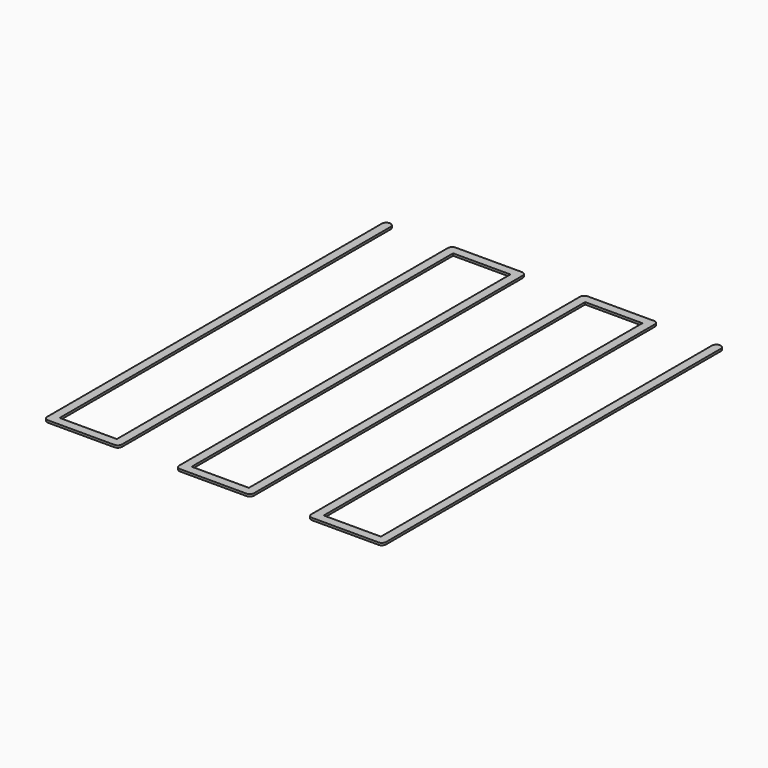
from build123d import *

# Parameters (mm, degrees)
F1_W     = 1
F1_H     = 1
F1_W_2   = 13
F2_DEPTH = 0.5


with BuildPart() as f2:
    # F1 (on Top) → F2 (new body)
    with BuildSketch(Plane.XY):
        with BuildLine():
            ThreePointArc((38, -47.5), (37.7071067812, -46.7928932188), (37, -46.5))
            Line((37, -46.5), (37, -47.5))
            Line((37, -47.5), (36, -47.5))
            ThreePointArc((36, -47.5), (36.2928932188, -48.2071067812), (37, -48.5))
            ThreePointArc((37, -48.5), (37.7071067812, -48.2071067812), (38, -47.5))
        make_face()
        with BuildLine():
            Line((36, -46.5), (37, -46.5))
            ThreePointArc((37, -46.5), (37.7071067812, -46.7928932188), (38, -47.5))
            Line((38, -47.5), (38, 47.5))
            ThreePointArc((38, 47.5), (37, 48.5), (36, 47.5))
            Line((36, 47.5), (36, -46.5))
        make_face()
        with Locations((36.5, -47)):
            Rectangle(F1_W, F1_H)
        with Locations((29.5, -47)):
            Rectangle(F1_W_2, F1_H)
        with BuildLine():
            ThreePointArc((37, -48.5), (36.2928932188, -48.2071067812), (36, -47.5))
            Line((36, -47.5), (23, -47.5))
            ThreePointArc((23, -47.5), (22.7071067812, -48.2071067812), (22, -48.5))
            Line((22, -48.5), (37, -48.5))
        make_face()
        with BuildLine():
            Line((22, -46.5), (23, -46.5))
            Line((23, -46.5), (23, 47.5))
            ThreePointArc((23, 47.5), (22.7071067812, 46.7928932188), (22, 46.5))
            Line((22, 46.5), (22, -46.5))
        make_face()
        with Locations((22.5, -47)):
            Rectangle(F1_W, F1_H)
        with BuildLine():
            ThreePointArc((22, -48.5), (22.7071067812, -48.2071067812), (23, -47.5))
            Line((23, -47.5), (22, -47.5))
            Line((22, -47.5), (22, -46.5))
            ThreePointArc((22, -46.5), (21.2928932188, -46.7928932188), (21, -47.5))
            ThreePointArc((21, -47.5), (21.2928932188, -48.2071067812), (22, -48.5))
        make_face()
        with BuildLine():
            ThreePointArc((22, 46.5), (22.7071067812, 46.7928932188), (23, 47.5))
            ThreePointArc((23, 47.5), (22.7071067812, 48.2071067812), (22, 48.5))
            ThreePointArc((22, 48.5), (21.2928932188, 48.2071067812), (21, 47.5))
            Line((21, 47.5), (22, 47.5))
            Line((22, 47.5), (22, 46.5))
        make_face()
        with BuildLine():
            ThreePointArc((21, -47.5), (21.2928932188, -46.7928932188), (22, -46.5))
            Line((22, -46.5), (22, 46.5))
            Line((22, 46.5), (21, 46.5))
            Line((21, 46.5), (21, -47.5))
        make_face()
        with BuildLine():
            ThreePointArc((21, 47.5), (21.2928932188, 48.2071067812), (22, 48.5))
            Line((22, 48.5), (7, 48.5))
            ThreePointArc((7, 48.5), (7.7071067812, 48.2071067812), (8, 47.5))
            Line((8, 47.5), (21, 47.5))
        make_face()
        with Locations((21.5, 47)):
            Rectangle(F1_W, F1_H)
        with Locations((14.5, 47)):
            Rectangle(F1_W_2, F1_H)
        with BuildLine():
            ThreePointArc((8, 47.5), (7.7071067812, 48.2071067812), (7, 48.5))
            ThreePointArc((7, 48.5), (6.2928932188, 48.2071067812), (6, 47.5))
            ThreePointArc((6, 47.5), (6.2928932188, 46.7928932188), (7, 46.5))
            Line((7, 46.5), (7, 47.5))
            Line((7, 47.5), (8, 47.5))
        make_face()
        with BuildLine():
            Line((8, -47.5), (8, 46.5))
            Line((8, 46.5), (7, 46.5))
            Line((7, 46.5), (7, -46.5))
            ThreePointArc((7, -46.5), (7.7071067812, -46.7928932188), (8, -47.5))
        make_face()
        with Locations((7.5, 47)):
            Rectangle(F1_W, F1_H)
        with BuildLine():
            ThreePointArc((7, 46.5), (6.2928932188, 46.7928932188), (6, 47.5))
            Line((6, 47.5), (6, -46.5))
            Line((6, -46.5), (7, -46.5))
            Line((7, -46.5), (7, 46.5))
        make_face()
        with BuildLine():
            ThreePointArc((7, -48.5), (7.7071067812, -48.2071067812), (8, -47.5))
            ThreePointArc((8, -47.5), (7.7071067812, -46.7928932188), (7, -46.5))
            Line((7, -46.5), (7, -47.5))
            Line((7, -47.5), (6, -47.5))
            ThreePointArc((6, -47.5), (6.2928932188, -48.2071067812), (7, -48.5))
        make_face()
        with Locations((6.5, -47)):
            Rectangle(F1_W, F1_H)
        with Locations((-0.5, -47)):
            Rectangle(F1_W_2, F1_H)
        with BuildLine():
            Line((-8, -48.5), (7, -48.5))
            ThreePointArc((7, -48.5), (6.2928932188, -48.2071067812), (6, -47.5))
            Line((6, -47.5), (-7, -47.5))
            ThreePointArc((-7, -47.5), (-7.2928932188, -48.2071067812), (-8, -48.5))
        make_face()
        with Locations((-7.5, -47)):
            Rectangle(F1_W, F1_H)
        with BuildLine():
            Line((-8, -46.5), (-7, -46.5))
            Line((-7, -46.5), (-7, 47.5))
            ThreePointArc((-7, 47.5), (-7.2928932188, 46.7928932188), (-8, 46.5))
            Line((-8, 46.5), (-8, -46.5))
        make_face()
        with BuildLine():
            ThreePointArc((-9, -47.5), (-8.7071067812, -48.2071067812), (-8, -48.5))
            ThreePointArc((-8, -48.5), (-7.2928932188, -48.2071067812), (-7, -47.5))
            Line((-7, -47.5), (-8, -47.5))
            Line((-8, -47.5), (-8, -46.5))
            ThreePointArc((-8, -46.5), (-8.7071067812, -46.7928932188), (-9, -47.5))
        make_face()
        with BuildLine():
            ThreePointArc((-9, -47.5), (-8.7071067812, -46.7928932188), (-8, -46.5))
            Line((-8, -46.5), (-8, 46.5))
            Line((-8, 46.5), (-9, 46.5))
            Line((-9, 46.5), (-9, -47.5))
        make_face()
        with BuildLine():
            ThreePointArc((-8, 46.5), (-7.2928932188, 46.7928932188), (-7, 47.5))
            ThreePointArc((-7, 47.5), (-7.2928932188, 48.2071067812), (-8, 48.5))
            ThreePointArc((-8, 48.5), (-8.7071067812, 48.2071067812), (-9, 47.5))
            Line((-9, 47.5), (-8, 47.5))
            Line((-8, 47.5), (-8, 46.5))
        make_face()
        with Locations((-8.5, 47)):
            Rectangle(F1_W, F1_H)
        with BuildLine():
            ThreePointArc((-9, 47.5), (-8.7071067812, 48.2071067812), (-8, 48.5))
            Line((-8, 48.5), (-23, 48.5))
            ThreePointArc((-23, 48.5), (-22.2928932188, 48.2071067812), (-22, 47.5))
            Line((-22, 47.5), (-9, 47.5))
        make_face()
        with Locations((-15.5, 47)):
            Rectangle(F1_W_2, F1_H)
        with BuildLine():
            ThreePointArc((-22, 47.5), (-22.2928932188, 48.2071067812), (-23, 48.5))
            ThreePointArc((-23, 48.5), (-23.7071067812, 48.2071067812), (-24, 47.5))
            ThreePointArc((-24, 47.5), (-23.7071067812, 46.7928932188), (-23, 46.5))
            Line((-23, 46.5), (-23, 47.5))
            Line((-23, 47.5), (-22, 47.5))
        make_face()
        with Locations((-22.5, 47)):
            Rectangle(F1_W, F1_H)
        with BuildLine():
            Line((-22, -47.5), (-22, 46.5))
            Line((-22, 46.5), (-23, 46.5))
            Line((-23, 46.5), (-23, -46.5))
            ThreePointArc((-23, -46.5), (-22.2928932188, -46.7928932188), (-22, -47.5))
        make_face()
        with BuildLine():
            ThreePointArc((-23, 46.5), (-23.7071067812, 46.7928932188), (-24, 47.5))
            Line((-24, 47.5), (-24, -46.5))
            Line((-24, -46.5), (-23, -46.5))
            Line((-23, -46.5), (-23, 46.5))
        make_face()
        with BuildLine():
            ThreePointArc((-23, -48.5), (-22.2928932188, -48.2071067812), (-22, -47.5))
            ThreePointArc((-22, -47.5), (-22.2928932188, -46.7928932188), (-23, -46.5))
            Line((-23, -46.5), (-23, -47.5))
            Line((-23, -47.5), (-24, -47.5))
            ThreePointArc((-24, -47.5), (-23.7071067812, -48.2071067812), (-23, -48.5))
        make_face()
        with Locations((-30.5, -47)):
            Rectangle(F1_W_2, F1_H)
        with Locations((-23.5, -47)):
            Rectangle(F1_W, F1_H)
        with BuildLine():
            Line((-38, -48.5), (-23, -48.5))
            ThreePointArc((-23, -48.5), (-23.7071067812, -48.2071067812), (-24, -47.5))
            Line((-24, -47.5), (-37, -47.5))
            ThreePointArc((-37, -47.5), (-37.2928932188, -48.2071067812), (-38, -48.5))
        make_face()
        with BuildLine():
            Line((-38, -46.5), (-37, -46.5))
            Line((-37, -46.5), (-37, 47.5))
            ThreePointArc((-37, 47.5), (-38, 48.5), (-39, 47.5))
            Line((-39, 47.5), (-39, -47.5))
            ThreePointArc((-39, -47.5), (-38.7071067812, -46.7928932188), (-38, -46.5))
        make_face()
        with Locations((-37.5, -47)):
            Rectangle(F1_W, F1_H)
        with BuildLine():
            ThreePointArc((-39, -47.5), (-38.7071067812, -48.2071067812), (-38, -48.5))
            ThreePointArc((-38, -48.5), (-37.2928932188, -48.2071067812), (-37, -47.5))
            Line((-37, -47.5), (-38, -47.5))
            Line((-38, -47.5), (-38, -46.5))
            ThreePointArc((-38, -46.5), (-38.7071067812, -46.7928932188), (-39, -47.5))
        make_face()
    extrude(amount=F2_DEPTH)


solid = f2.part
